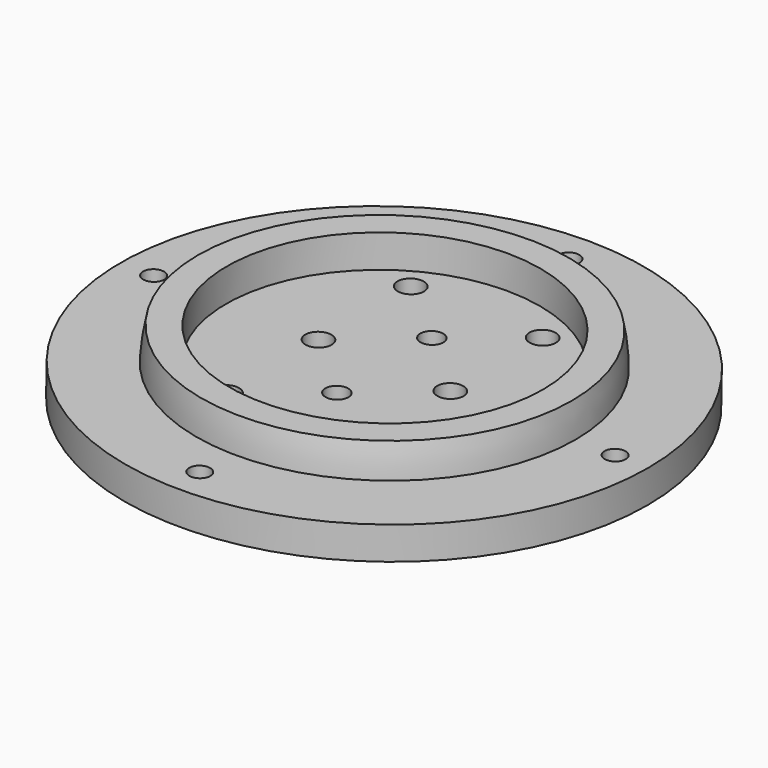
from build123d import *

# Parameters (mm, degrees)
CYLINDER061_R          = 1.6
CYLINDER061_DEPTH      = 10
CYLINDER062_R          = 1.6
CYLINDER062_DEPTH      = 10
CYLINDER063_R          = 1.6
CYLINDER063_DEPTH      = 10
CYLINDER060_R          = 1.6
CYLINDER060_DEPTH      = 10
CYLINDER057_R          = 2
CYLINDER057_DEPTH      = 10
CYLINDER056_R          = 2
CYLINDER056_DEPTH      = 10
CYLINDER059_R          = 1.75
CYLINDER059_DEPTH      = 10
CYLINDER058_R          = 1.75
CYLINDER058_DEPTH      = 10
CYLINDER050_R          = 2
CYLINDER050_DEPTH      = 10
CYLINDER051_R          = 2
CYLINDER051_DEPTH      = 10
CYLINDER052_R          = 2
CYLINDER052_DEPTH      = 10
CYLINDER053_R          = 2
CYLINDER053_DEPTH      = 10
CYLINDER055_R          = 24
CYLINDER055_DEPTH      = 7
CYLINDER054_R          = 40
CYLINDER054_DEPTH      = 5
CUT011_PLACEMENT_ANGLE = 1


with BuildPart() as obj1:
    # Cylinder061 → Cylinder061 (new body)
    with BuildSketch(Plane(origin=(40, 0, 65), x_dir=(1, 0, 0), z_dir=(0, 0, 1))):
        Circle(CYLINDER061_R)
    extrude(amount=CYLINDER061_DEPTH)


with BuildPart() as obj2:
    # Cylinder062 → Cylinder062 (new body)
    with BuildSketch(Plane(origin=(5, 35, 65), x_dir=(1, 0, 0), z_dir=(0, 0, 1))):
        Circle(CYLINDER062_R)
    extrude(amount=CYLINDER062_DEPTH)


with BuildPart() as obj3:
    # Cylinder063 → Cylinder063 (new body)
    with BuildSketch(Plane(origin=(5, -35, 65), x_dir=(1, 0, 0), z_dir=(0, 0, 1))):
        Circle(CYLINDER063_R)
    extrude(amount=CYLINDER063_DEPTH)


with BuildPart() as fusion029:
    # Cylinder060 → Cylinder060 (new body)
    with BuildSketch(Plane(origin=(-30, 0, 65), x_dir=(1, 0, 0), z_dir=(0, 0, 1))):
        Circle(CYLINDER060_R)
    extrude(amount=CYLINDER060_DEPTH)

    # Fusion029: union obj1, obj2, obj3
    add(obj1.part)
    add(obj2.part)
    add(obj3.part)


with BuildPart() as wirecut005:
    # Cylinder057 → Cylinder057 (new body)
    with BuildSketch(Plane(origin=(15, 0, 70), x_dir=(1, 0, 0), z_dir=(0, 0, 1))):
        Circle(CYLINDER057_R)
    extrude(amount=CYLINDER057_DEPTH)


with BuildPart() as wirecuts002:
    # Cylinder056 → Cylinder056 (new body)
    with BuildSketch(Plane(origin=(-5, 0, 70), x_dir=(1, 0, 0), z_dir=(0, 0, 1))):
        Circle(CYLINDER056_R)
    extrude(amount=CYLINDER056_DEPTH)

    # Fusion025: union wireCUt005
    add(wirecut005.part)


with BuildPart() as m3cuts005:
    # Cylinder059 → Cylinder059 (new body)
    with BuildSketch(Plane(origin=(5, 9, 70), x_dir=(1, 0, 0), z_dir=(0, 0, 1))):
        Circle(CYLINDER059_R)
    extrude(amount=CYLINDER059_DEPTH)


with BuildPart() as m3cute002:
    # Cylinder058 → Cylinder058 (new body)
    with BuildSketch(Plane(origin=(5, -9, 70), x_dir=(1, 0, 0), z_dir=(0, 0, 1))):
        Circle(CYLINDER058_R)
    extrude(amount=CYLINDER058_DEPTH)

    # Fusion026: union m3Cuts005
    add(m3cuts005.part)


with BuildPart() as cylinder050:
    # Cylinder050 → Cylinder050 (new body)
    with BuildSketch(Plane(origin=(0, -21, 0), x_dir=(1, 0, 0), z_dir=(0, 0, 1))):
        Circle(CYLINDER050_R)
    extrude(amount=CYLINDER050_DEPTH)


with BuildPart() as m3heatsetcuts006:
    # Cylinder051 → Cylinder051 (new body)
    with BuildSketch(Plane(origin=(20, -21, 0), x_dir=(1, 0, 0), z_dir=(0, 0, 1))):
        Circle(CYLINDER051_R)
    extrude(amount=CYLINDER051_DEPTH)

    # Fusion022: union Cylinder050
    add(cylinder050.part)


with BuildPart() as m3heatsetcuts006_1:
    # Fusion022 placement: moved
    add(m3heatsetcuts006.part.moved(Location((-5, 38.5, 70))))


with BuildPart() as cylinder052:
    # Cylinder052 → Cylinder052 (new body)
    with BuildSketch(Plane(origin=(0, -21, 0), x_dir=(1, 0, 0), z_dir=(0, 0, 1))):
        Circle(CYLINDER052_R)
    extrude(amount=CYLINDER052_DEPTH)


with BuildPart() as basecuts002:
    # Cylinder053 → Cylinder053 (new body)
    with BuildSketch(Plane(origin=(20, -21, 0), x_dir=(1, 0, 0), z_dir=(0, 0, 1))):
        Circle(CYLINDER053_R)
    extrude(amount=CYLINDER053_DEPTH)

    # Fusion023: union Cylinder052
    add(cylinder052.part)


with BuildPart() as basecuts002_1:
    # Fusion023 placement: moved
    add(basecuts002.part.moved(Location((-5, 3.5, 70))))

    # Fusion024: union m3HeatSetCuts006
    add(m3heatsetcuts006_1.part)

    # Fusion027: union wireCuts002, m3Cute002
    add(wirecuts002.part)
    add(m3cute002.part)


with BuildPart() as basecut002:
    # Cylinder055 → Cylinder055 (new body)
    with BuildSketch(Plane(origin=(5, 0, 74), x_dir=(1, 0, 0), z_dir=(0, 0, 1))):
        Circle(CYLINDER055_R)
    extrude(amount=CYLINDER055_DEPTH)


with BuildPart() as cut009:
    # Sphere003 → Sphere003 (revolve)
    with BuildSketch(Plane(origin=(5, 0, 74), x_dir=(1, 0, 0), z_dir=(0, -1, 0))):
        with BuildLine():
            ThreePointArc((29, 0), (28.841135, 3.031325), (28.36628, 6.029439))
            Line((28.36628, 6.029439), (0, 6.029439))
            Line((0, 6.029439), (0, 0))
            Line((0, 0), (29, 0))
        make_face()
    revolve(axis=Axis((5, 0, 74), (0, 0, 1)))

    # Cut009: cut baseCut002
    add(basecut002.part, mode=Mode.SUBTRACT)


with BuildPart() as lightmodule002:
    # Cylinder054 → Cylinder054 (new body)
    with BuildSketch(Plane(origin=(5, 0, 70), x_dir=(1, 0, 0), z_dir=(0, 0, 1))):
        Circle(CYLINDER054_R)
    extrude(amount=CYLINDER054_DEPTH)

    # Fusion028: union Cut009
    add(cut009.part)

    # Cut010: cut baseCUts002
    add(basecuts002_1.part, mode=Mode.SUBTRACT)

    # Cut011: cut Fusion029
    add(fusion029.part, mode=Mode.SUBTRACT)


with BuildPart() as lightmodule002_1:
    # Cut011 placement: moved
    add(lightmodule002.part.moved(Location((34, -276, 0))).rotate(Axis((34, -276, 0), (0, 1, 0)), CUT011_PLACEMENT_ANGLE))


solid = lightmodule002_1.part
